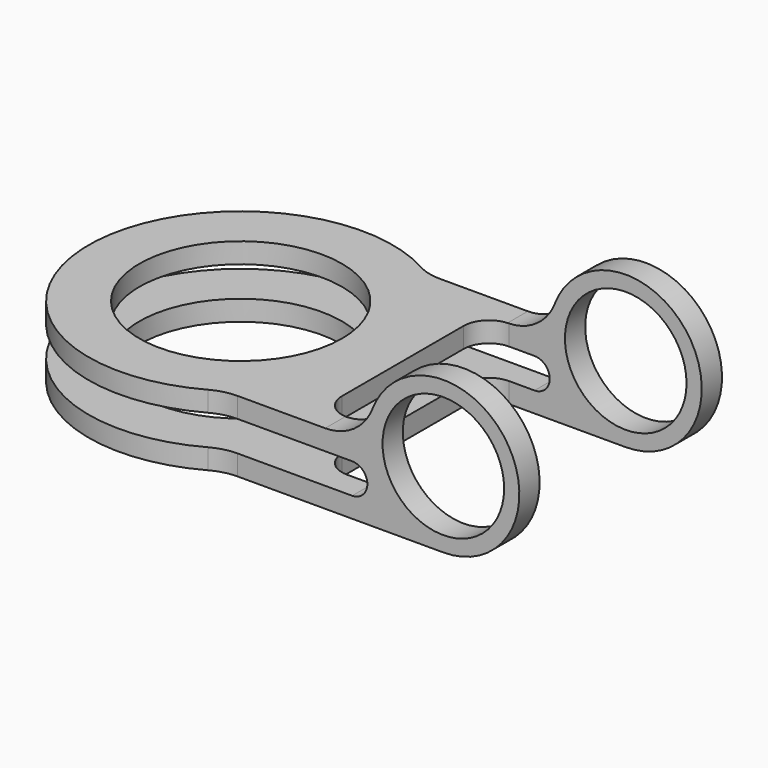
from build123d import *

# Parameters (mm, degrees)
SKETCH002_R  = 12
PAD001_DEPTH = 30
SKETCH_R     = 20
PAD_DEPTH    = 30


with BuildPart() as obj1:
    # Sketch002 → Pad001 (new body, symmetric)
    with BuildSketch(Plane.XZ):
        with BuildLine():
            Line((-30, 14), (-30, 10))
            Line((-30, 10), (42, 10))
            ThreePointArc((42, 4), (45, 7), (42, 10))
            Line((42, 4), (-30, 4))
            Line((-30, 4), (-30, 0))
            Line((-30, 0), (60, 0))
            ThreePointArc((60, 0), (72.369317, 23.485281), (46.005715, 20.4))
            ThreePointArc((36.676192, 14), (42.333047, 15.753789), (46.005715, 20.4))
            Line((36.676192, 14), (-30, 14))
        make_face()
        with Locations((60, 15)):
            Circle(SKETCH002_R, mode=Mode.SUBTRACT)
    extrude(amount=PAD001_DEPTH, both=True)


with BuildPart() as obj2:
    # Sketch → Pad (new body)
    with BuildSketch(Plane.XY):
        with BuildLine():
            Line((75, 25), (75, 20))
            Line((75, 20), (37, 20))
            ThreePointArc((37, 20), (33.464466, 18.535534), (32, 15))
            Line((32, 15), (32, -15))
            ThreePointArc((32, -15), (33.464466, -18.535534), (37, -20))
            Line((37, -20), (75, -20))
            Line((75, -20), (75, -25))
            Line((19.364917, -25), (75, -25))
            ThreePointArc((19.364917, -25), (16.864917, -25.317542), (14.523688, -26.25))
            ThreePointArc((14.523688, 26.25), (-30, 0), (14.523688, -26.25))
            ThreePointArc((14.523688, 26.25), (16.864917, 25.317542), (19.364917, 25))
            Line((75, 25), (19.364917, 25))
        make_face()
        Circle(SKETCH_R, mode=Mode.SUBTRACT)
    extrude(amount=PAD_DEPTH)

    # Boolean: intersect obj1
    add(obj1.part, mode=Mode.INTERSECT)


solid = obj2.part
